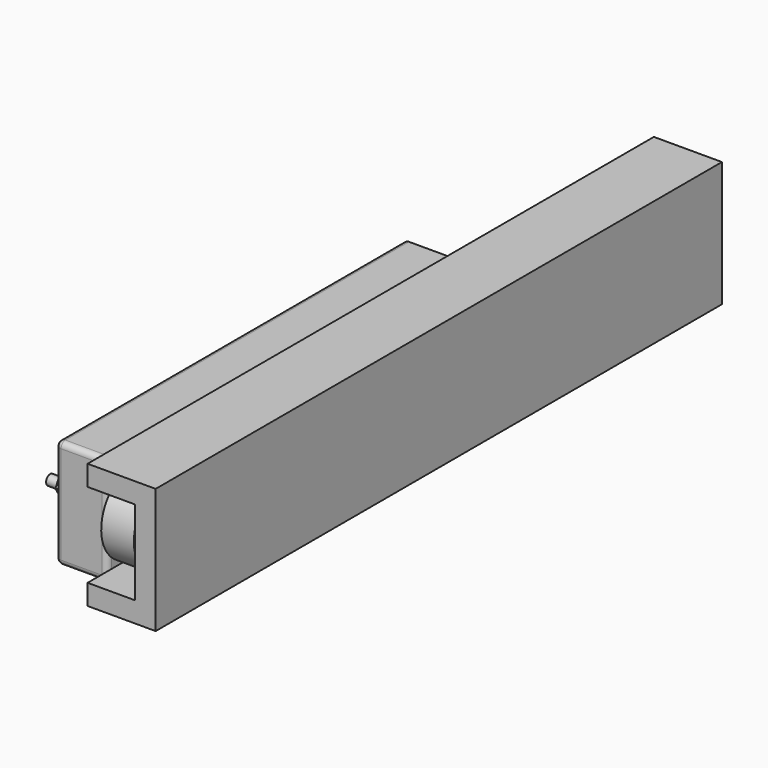
from build123d import *

# Parameters (mm, degrees)
F2_R           = 4.826
F2_R_2         = 10.795
F2_R_3         = 3.81
F3_DEPTH       = 19.686
F3_DEPTH_BACK  = 19.686
F4_R           = 4.7625
F5_DEPTH       = 73.66
F8_DEPTH       = 11.43
F9_R           = 12.7
F9_R_2         = 5.461
F10_DEPTH      = 1.778
F11_W          = 405.7125619888
F11_H          = 101.6
F12_DEPTH      = 48.26
F13_R          = 5.08
F15_DEPTH      = 50.8
F15_DEPTH_BACK = 609.6


with BuildPart() as f1:
    # F0 (on Front) → F1 (revolve)
    with BuildSketch(Plane.XZ):
        with BuildLine():
            Line((15.24, 38.1), (-15.24, 38.1))
            Line((-15.24, 38.1), (-15.24, 33.02))
            ThreePointArc((-15.24, 33.02), (-12.2194220387, 20.4547157767), (-19.685, 9.906))
            Line((-19.685, 9.906), (-19.685, 4.826))
            Line((-19.685, 4.826), (19.685, 4.826))
            Line((19.685, 4.826), (19.685, 9.906))
            ThreePointArc((19.685, 9.906), (12.2194220387, 20.4547157767), (15.24, 33.02))
            Line((15.24, 33.02), (15.24, 38.1))
        make_face()
    revolve(axis=Axis((0, 0, 0), (1, 0, 0)))

    # F2 (on Right) → F3 (cut, two sides)
    with BuildSketch(Plane.YZ) as f3_sk:
        Circle(F2_R)
        with Locations((0, 22.225)):
            Circle(F2_R_2)
        with Locations((-22.225, 0)):
            Circle(F2_R_2)
        with Locations((22.225, 0)):
            Circle(F2_R_2)
        with Locations((0, -22.225)):
            Circle(F2_R_2)
        with Locations((-19.685, 19.685)):
            Circle(F2_R_3)
        with Locations((19.685, 19.685)):
            Circle(F2_R_3)
        with Locations((19.685, -19.685)):
            Circle(F2_R_3)
        with Locations((-19.685, -19.685)):
            Circle(F2_R_3)
    extrude(amount=-F3_DEPTH, mode=Mode.SUBTRACT)
    extrude(f3_sk.sketch, amount=F3_DEPTH_BACK, mode=Mode.SUBTRACT)


with BuildPart() as f5:
    # F4 (on face) → F5 (new body)
    with BuildSketch(Plane(origin=(-19.685, 0, 0), x_dir=(0, -1, 0), z_dir=(-1, 0, 0))):
        Circle(F4_R)
    extrude(amount=F5_DEPTH)

    # F7 (on offset) → F8 (join)
    with BuildSketch(Plane.YZ.offset(-70.485)):
        Polygon((-8.1829008353, 0), (-4.0914504176, -7.0866), (4.0914504176, -7.0866), (8.1829008353, 0), (4.0914504176, 7.0866), (-4.0914504176, 7.0866), align=None)
    extrude(amount=-F8_DEPTH)


with BuildPart() as f10:
    # F9 (on face) → F10 (new body)
    with BuildSketch(Plane.YZ.offset(-70.485)):
        Circle(F9_R)
        Circle(F9_R_2, mode=Mode.SUBTRACT)
    extrude(amount=F10_DEPTH)


with BuildPart() as f12:
    # F11 (on face) → F12 (new body)
    with BuildSketch(Plane(origin=(-19.685, 0, 0), x_dir=(0, -1, 0), z_dir=(-1, 0, 0))):
        with Locations((-177.4562809944, 0)):
            Rectangle(F11_W, F11_H)
    extrude(amount=F12_DEPTH)

    # F13
    f13_edges = [f12.edges().sort_by_distance(p)[0] for p in [
        (-43.815, -25.4, -50.8),
        (-43.815, -25.4, 50.8),
        (-19.685, -25.4, 0),
        (-67.945, -25.4, 0),
        (-67.945, 177.456281, 50.8),
        (-19.685, 177.456281, 50.8),
        (-67.945, 177.456281, -50.8),
        (-19.685, 177.456281, -50.8),
    ]]
    fillet(f13_edges, radius=F13_R)


with BuildPart() as f15:
    # F14 (on Front) → F15 (new body, two sides)
    with BuildSketch(Plane.XZ) as f15_sk:
        Polygon((-17.78, 58.42), (-17.78, 39.37), (26.67, 39.37), (26.67, -39.37), (-17.78, -39.37), (-17.78, -58.42), (45.72, -58.42), (45.72, 58.42), align=None)
    extrude(amount=F15_DEPTH)
    extrude(f15_sk.sketch, amount=-F15_DEPTH_BACK)


solid = Compound([f1.part, f5.part, f10.part, f12.part, f15.part])
